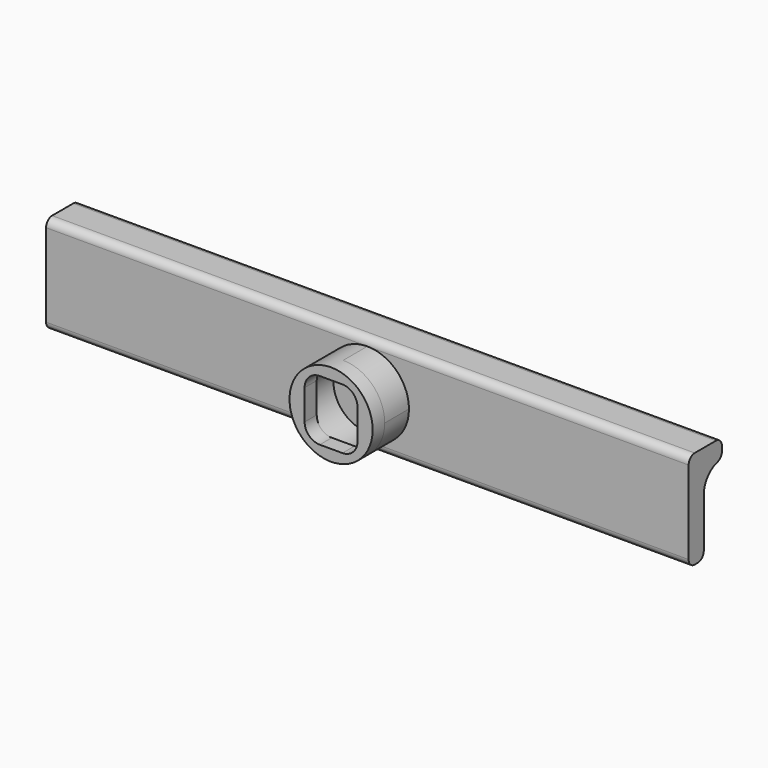
from build123d import *

# Parameters (mm, degrees)
F1_DEPTH = 107.95
F2_R     = 5.715
F3_DEPTH = 5.08
F4_R     = 6.985
F5_DEPTH = 2.54
F7_DEPTH = 5.08


with BuildPart() as f1:
    # F0 (on Right) → F1 (new body)
    with BuildSketch(Plane.YZ):
        with BuildLine():
            Line((0, 10.16), (0, 1.27))
            ThreePointArc((0, 1.27), (0.371974, 0.371974), (1.27, 0))
            Line((1.27, 0), (1.905, 0))
            ThreePointArc((1.905, 0), (2.803026, 0.371974), (3.175, 1.27))
            Line((3.175, 1.27), (3.175, 9.525))
            ThreePointArc((3.175, 9.525), (3.972931, 11.858139), (6.0325, 13.214017))
            ThreePointArc((6.0325, 13.214017), (6.719023, 13.665976), (6.985, 14.443689))
            Line((6.985, 14.443689), (6.985, 15.24))
            ThreePointArc((6.985, 15.24), (6.613026, 16.138026), (5.715, 16.51))
            Line((5.715, 16.51), (1.27, 16.51))
            ThreePointArc((1.27, 16.51), (0.371974, 16.138026), (0, 15.24))
            Line((0, 15.24), (0, 10.16))
        make_face()
    extrude(amount=F1_DEPTH)

    # F2 (on face) → F3 (join)
    with BuildSketch(Plane.XZ):
        with BuildLine():
            ThreePointArc((53.975, 1.27), (58.914141, 3.315859), (60.96, 8.255))
            ThreePointArc((60.96, 8.255), (58.914141, 13.194141), (53.975, 15.24))
            ThreePointArc((53.975, 15.24), (46.99, 8.255), (53.975, 1.27))
        make_face()
        with Locations((53.975, 8.255)):
            Circle(F2_R, mode=Mode.SUBTRACT)
    extrude(amount=F3_DEPTH)

    # F4 (on face) → F5 (join)
    with BuildSketch(Plane.XZ.offset(5.08)):
        with Locations((53.975, 8.255)):
            Circle(F4_R)
    extrude(amount=F5_DEPTH)

    # F6 (on face) → F7 (cut)
    with BuildSketch(Plane.XZ.offset(7.62)):
        with BuildLine():
            Line((55.88, 13.335), (53.975, 13.335))
            Line((53.975, 13.335), (52.07, 13.335))
            ThreePointArc((52.07, 13.335), (50.273949, 12.591051), (49.53, 10.795))
            Line((49.53, 10.795), (49.53, 5.715))
            ThreePointArc((49.53, 5.715), (50.273949, 3.918949), (52.07, 3.175))
            Line((52.07, 3.175), (55.88, 3.175))
            ThreePointArc((55.88, 3.175), (57.676051, 3.918949), (58.42, 5.715))
            Line((58.42, 5.715), (58.42, 8.255))
            Line((58.42, 8.255), (58.42, 10.795))
            ThreePointArc((58.42, 10.795), (57.676051, 12.591051), (55.88, 13.335))
        make_face()
    extrude(amount=-F7_DEPTH, mode=Mode.SUBTRACT)


solid = f1.part
